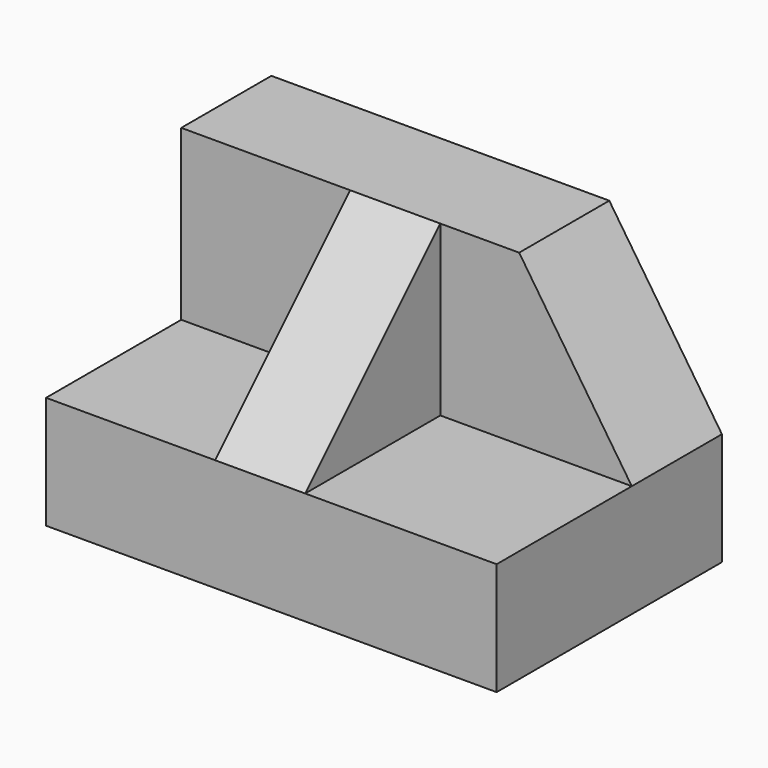
from build123d import *

# Parameters (mm, degrees)
F0_W     = 50.8
F0_H     = 31.75
F1_DEPTH = 31.75
F2_W     = 19.05
F2_H     = 19.05
F3_DEPTH = 19.05
F4_W     = 19.05
F4_H     = 19.05
F5_DEPTH = 21.59
F7_DEPTH = 25.4
F9_DEPTH = 25.4


with BuildPart() as f1:
    # F0 (on Front) → F1 (new body)
    with BuildSketch(Plane.XZ):
        with Locations((25.4, 15.875)):
            Rectangle(F0_W, F0_H)
    extrude(amount=F1_DEPTH)

    # F2 (on face) → F3 (cut)
    with BuildSketch(Plane(origin=(0, 0, 0), x_dir=(0, -1, 0), z_dir=(-1, 0, 0))):
        with Locations((22.225, 22.225)):
            Rectangle(F2_W, F2_H)
    extrude(amount=-F3_DEPTH, mode=Mode.SUBTRACT)

    # F4 (on face) → F5 (cut)
    with BuildSketch(Plane.YZ.offset(50.8)):
        with Locations((-22.225, 22.225)):
            Rectangle(F4_W, F4_H)
    extrude(amount=-F5_DEPTH, mode=Mode.SUBTRACT)

    # F6 (on face) → F7 (cut)
    with BuildSketch(Plane.YZ.offset(29.21)):
        Polygon((-31.75, 31.75), (-31.75, 12.7), (-12.7, 31.75), align=None)
    extrude(amount=-F7_DEPTH, mode=Mode.SUBTRACT)

    # F8 (on face) → F9 (cut)
    with BuildSketch(Plane(origin=(0, 0, 0), x_dir=(-1, 0, 0), z_dir=(0, 1, 0))):
        Polygon((-38.1, 31.75), (-50.8, 31.75), (-50.8, 12.7), align=None)
    extrude(amount=-F9_DEPTH, mode=Mode.SUBTRACT)


solid = f1.part
